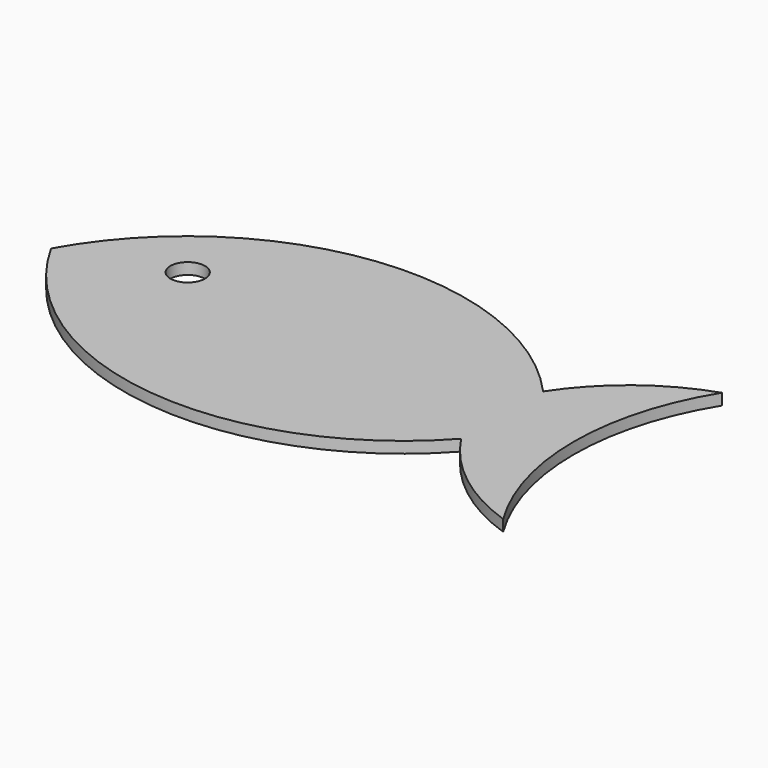
from build123d import *

# Parameters (mm, degrees)
F0_R     = 3.054934
F1_DEPTH = 2


with BuildPart() as f1:
    # F0 (on Top) → F1 (new body)
    with BuildSketch(Plane.XY):
        with BuildLine():
            ThreePointArc((19.515011, 24.16541), (8.491912, 18.245194), (0, 9.055791))
            ThreePointArc((0, 9.055791), (-42.193006, 25.039156), (-79.726435, 0))
            ThreePointArc((-79.726435, 0), (-42.193006, -25.039156), (0, -9.055791))
            ThreePointArc((0, -9.055791), (8.491912, -18.245194), (19.515011, -24.16541))
            ThreePointArc((19.515011, -24.16541), (12.673698, 0), (19.515011, 24.16541))
        make_face()
        with Locations((-60.549479, 6.214748)):
            Circle(F0_R, mode=Mode.SUBTRACT)
    extrude(amount=F1_DEPTH)


solid = f1.part
